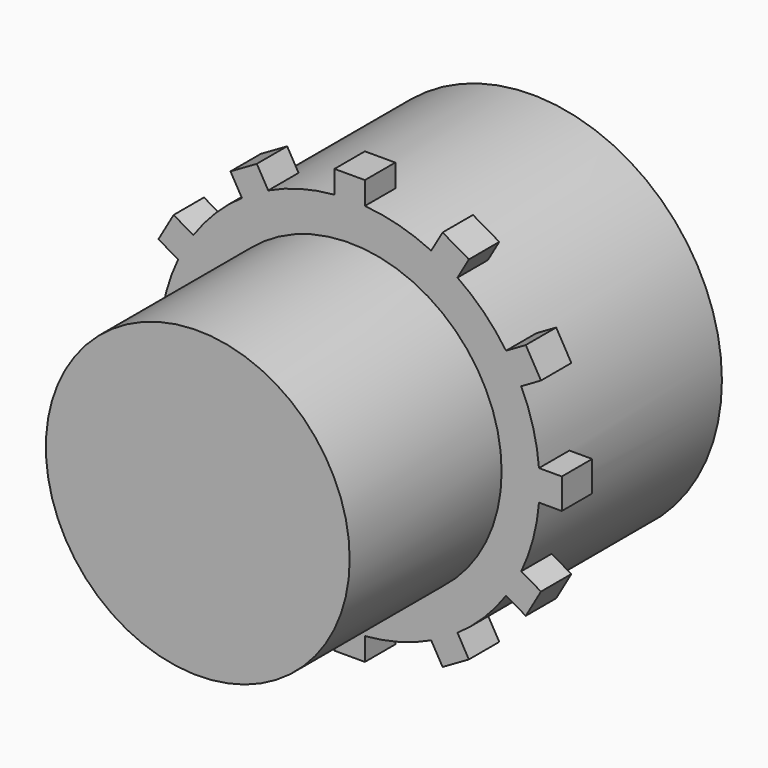
from build123d import *

# Parameters (mm, degrees)
F0_R     = 25
F0_R_2   = 20
F1_DEPTH = 30
F3_DEPTH = 5
F4_COUNT = 12
F5_R     = 20
F6_DEPTH = 25


with BuildPart() as f1:
    # F0 (on Front) → F1 (new body)
    with BuildSketch(Plane.XZ):
        Circle(F0_R)
        Circle(F0_R_2, mode=Mode.SUBTRACT)
    extrude(amount=F1_DEPTH)

    # F2 (on face) → F3 (join)
    with BuildSketch(Plane.XZ.offset(30)):
        with BuildLine():
            ThreePointArc((-2, 24.9198715888), (0, 25), (2, 24.9198715888))
            Line((2, 24.9198715888), (2, 27.9198715888))
            Line((2, 27.9198715888), (-2, 27.9198715888))
            Line((-2, 27.9198715888), (-2, 24.9198715888))
        make_face()
    extrude(amount=-F3_DEPTH)

    # F4: F1 ×12 about axis
    f4_axis = Axis((0, 0, 0), (0, 1, 0))


with BuildPart() as f1_1:
    add(f1.part)
    for i in range(1, F4_COUNT):
        add(f1.part.rotate(f4_axis, i * 360 / F4_COUNT))

    # F5 (on face) → F6 (join)
    with BuildSketch(Plane.XZ.offset(30)):
        Circle(F5_R)
    extrude(amount=F6_DEPTH)


solid = f1_1.part
